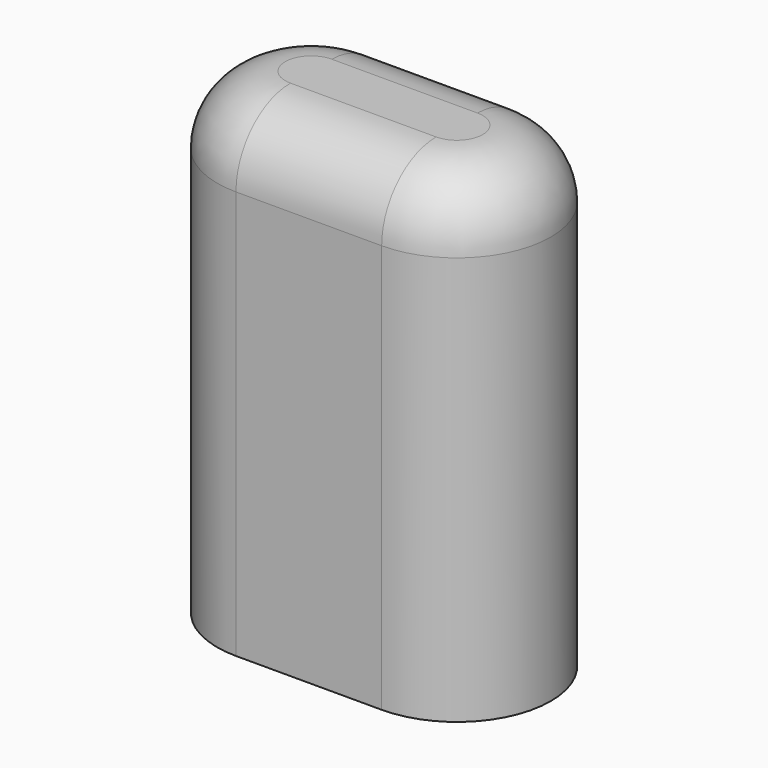
from build123d import *

# Parameters (mm, degrees)
F1_DEPTH = 35
F2_R     = 5
F3_T     = -0.6


with BuildPart() as f1:
    # F0 (on Top) → F1 (new body)
    with BuildSketch(Plane.XY):
        with BuildLine():
            Line((5.35, 6.9), (-5.35, 6.9))
            ThreePointArc((-5.35, 6.9), (-12.25, 0), (-5.35, -6.9))
            Line((-5.35, -6.9), (5.35, -6.9))
            ThreePointArc((5.35, -6.9), (12.25, 0), (5.35, 6.9))
        make_face()
    extrude(amount=F1_DEPTH)

    # F2
    f2_edges = [f1.edges().sort_by_distance(p)[0] for p in [
        (0, -6.9, 35),
    ]]
    fillet(f2_edges, radius=F2_R)

    # F3
    f3_openings = [f1.faces().sort_by_distance(p)[0] for p in [
        (0, 0, 0),
    ]]
    offset(amount=F3_T, openings=f3_openings)


solid = f1.part
